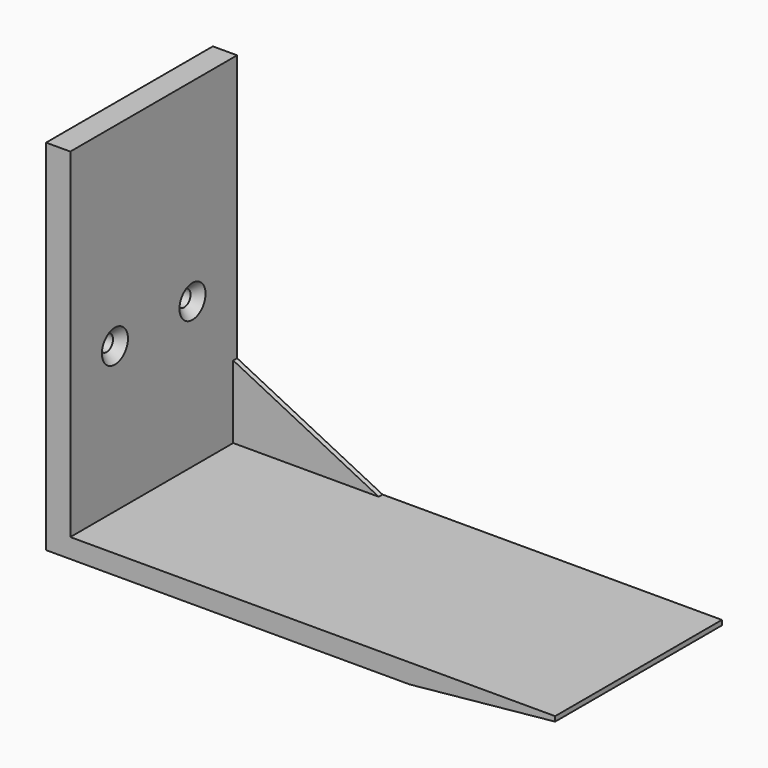
from build123d import *

# Parameters (mm, degrees)
F1_DEPTH       = 43
F3_D           = 3.3
F3_CSINK_D     = 6.72
F3_CSINK_ANGLE = 90
F4_SIZE2       = 3
F4_SIZE        = 30
F6_DEPTH       = 1


with BuildPart() as f1:
    # F0 (on Front) → F1 (new body)
    with BuildSketch(Plane.XZ):
        Polygon((0, 74), (0, 0), (105, 0), (105, 4), (5, 4), (5, 74), align=None)
    extrude(amount=-F1_DEPTH)

    # F3 (through all)
    with Locations(Plane.YZ.offset(5)):
        with Locations((31.5, 34), (11.5, 34)):
            CounterSinkHole(F3_D / 2, F3_CSINK_D / 2, counter_sink_angle=F3_CSINK_ANGLE)

    # F4
    f4_edges = [f1.edges().sort_by_distance(p)[0] for p in [
        (105, 21.5, 0),
    ]]
    f4_side = f1.faces().sort_by_distance((52.5, 21.5, 0))[0]
    chamfer(f4_edges, length=F4_SIZE, length2=F4_SIZE2, reference=f4_side)

    # F5 (on face) → F6 (join)
    with BuildSketch(Plane(origin=(0, 43, 0), x_dir=(-1, 0, 0), z_dir=(0, 1, 0))):
        Polygon((-35, 4), (-5, 4), (-5, 19), align=None)
    extrude(amount=-F6_DEPTH)


solid = f1.part
